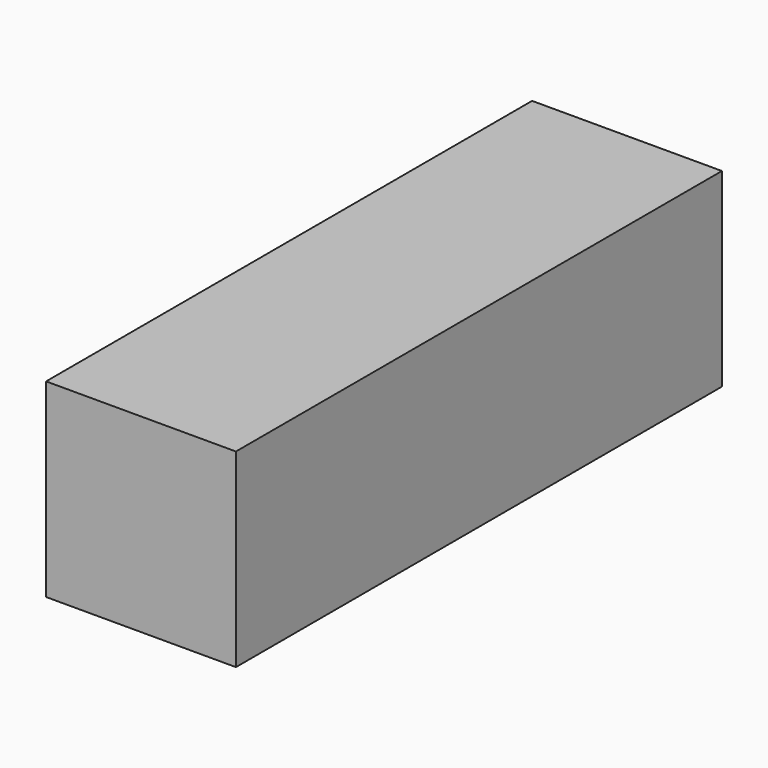
from build123d import *

# Parameters (mm, degrees)
F0_W      = 63.5
F0_H      = 63.5
F1_DEPTH  = 1498.6
F1_FACE_W = 63.5
F1_FACE_H = 63.5
F2_DEPTH  = 1092.2
F2_FACE_W = 63.5
F2_FACE_H = 63.5
F3_DEPTH  = 203.2


with BuildPart() as f1:
    # F0 (on Front) → F1 (new body)
    with BuildSketch(Plane.XZ):
        with Locations((-132.818661, 36.373457)):
            Rectangle(F0_W, F0_H)
    extrude(amount=F1_DEPTH)

    # F1_face (on face) → F2 (cut)
    with BuildSketch(Plane(origin=(-132.818661, 0, 36.373457), x_dir=(1, 0, 0), z_dir=(0, 1, 0))):
        Rectangle(F1_FACE_W, F1_FACE_H)
    extrude(amount=-F2_DEPTH, mode=Mode.SUBTRACT)

    # F2_face (on face) → F3 (cut)
    with BuildSketch(Plane(origin=(-132.818661, -1092.2, 36.373457), x_dir=(1, 0, 0), z_dir=(0, 1, 0))):
        Rectangle(F2_FACE_W, F2_FACE_H)
    extrude(amount=-F3_DEPTH, mode=Mode.SUBTRACT)


solid = f1.part
